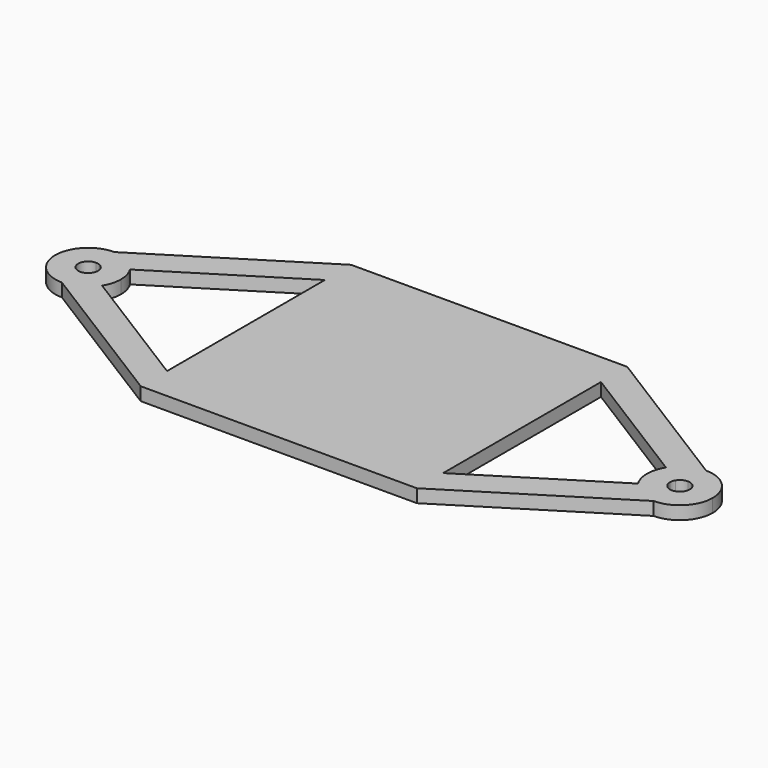
from build123d import *

# Parameters (mm, degrees)
F0_W     = 6
F0_H     = 5
F0_W_2   = 30
F1_DEPTH = 2


with BuildPart() as f1:
    # F0 (on Top) → F1 (new body)
    with BuildSketch(Plane.XY):
        with BuildLine():
            ThreePointArc((-45, -1.5), (-46.5, 0), (-45, 1.5))
            Line((-45, 1.5), (-45, 5))
            ThreePointArc((-45, 5), (-50, 0), (-45, -5))
            Line((-45, -5), (-45, -1.5))
        make_face()
        with BuildLine():
            ThreePointArc((-45, 5), (-42.576157338, 4.3732124062), (-40.76000848, 2.6499947))
            Line((-40.76000848, 2.6499947), (-21, 15))
            Line((-21, 15), (-21, 20))
            Line((-21, 20), (-45, 5))
        make_face()
        with BuildLine():
            Line((-21, -15), (-40.76000848, -2.6499947))
            ThreePointArc((-40.76000848, -2.6499947), (-42.576157338, -4.3732124062), (-45, -5))
            Line((-45, -5), (-21, -20))
            Line((-21, -20), (-21, -15))
        make_face()
        with BuildLine():
            ThreePointArc((50, 0), (48.5355339059, 3.5355339059), (45, 5))
            Line((45, 5), (45, 1.5))
            ThreePointArc((45, 1.5), (46.0606601718, 1.0606601718), (46.5, 0))
            ThreePointArc((46.5, 0), (46.0606601718, -1.0606601718), (45, -1.5))
            Line((45, -1.5), (45, -5))
            ThreePointArc((45, -5), (48.5355339059, -3.5355339059), (50, 0))
        make_face()
        with BuildLine():
            Line((21, 20), (21, 15))
            Line((21, 15), (40.76000848, 2.6499947))
            ThreePointArc((40.76000848, 2.6499947), (42.576157338, 4.3732124062), (45, 5))
            Line((45, 5), (21, 20))
        make_face()
        with BuildLine():
            Line((40.76000848, -2.6499947), (21, -15))
            Line((21, -15), (21, -20))
            Line((21, -20), (45, -5))
            ThreePointArc((45, -5), (42.576157338, -4.3732124062), (40.76000848, -2.6499947))
        make_face()
        with Locations((-18, 17.5)):
            Rectangle(F0_W, F0_H)
        with Locations((0, 17.5)):
            Rectangle(F0_W_2, F0_H)
        with Locations((18, 17.5)):
            Rectangle(F0_W, F0_H)
        with BuildLine():
            ThreePointArc((-45, 1.5), (-44.2728472014, 1.3119637219), (-43.728002544, 0.79499841))
            Line((-43.728002544, 0.79499841), (-40.76000848, 2.6499947))
            ThreePointArc((-40.76000848, 2.6499947), (-42.576157338, 4.3732124062), (-45, 5))
            Line((-45, 5), (-45, 1.5))
        make_face()
        with BuildLine():
            Line((-40.76000848, -2.6499947), (-43.728002544, -0.79499841))
            ThreePointArc((-43.728002544, -0.79499841), (-44.2728472014, -1.3119637219), (-45, -1.5))
            Line((-45, -1.5), (-45, -5))
            ThreePointArc((-45, -5), (-42.576157338, -4.3732124062), (-40.76000848, -2.6499947))
        make_face()
        with BuildLine():
            ThreePointArc((45, 5), (42.576157338, 4.3732124062), (40.76000848, 2.6499947))
            Line((40.76000848, 2.6499947), (43.728002544, 0.79499841))
            ThreePointArc((43.728002544, 0.79499841), (44.2728472014, 1.3119637219), (45, 1.5))
            Line((45, 1.5), (45, 5))
        make_face()
        with BuildLine():
            Line((43.728002544, -0.79499841), (40.76000848, -2.6499947))
            ThreePointArc((40.76000848, -2.6499947), (42.576157338, -4.3732124062), (45, -5))
            Line((45, -5), (45, -1.5))
            ThreePointArc((45, -1.5), (44.2728472014, -1.3119637219), (43.728002544, -0.79499841))
        make_face()
        with Locations((-18, -17.5)):
            Rectangle(F0_W, F0_H)
        with Locations((18, -17.5)):
            Rectangle(F0_W, F0_H)
        with BuildLine():
            ThreePointArc((-43.728002544, 0.79499841), (-43.5581268808, 0.4135237696), (-43.5, 0))
            Line((-43.5, 0), (-40, 0))
            ThreePointArc((-40, 0), (-40.1937562692, 1.3784125652), (-40.76000848, 2.6499947))
            Line((-40.76000848, 2.6499947), (-43.728002544, 0.79499841))
        make_face()
        with BuildLine():
            Line((-40, 0), (-43.5, 0))
            ThreePointArc((-43.5, 0), (-43.5581268808, -0.4135237696), (-43.728002544, -0.79499841))
            Line((-43.728002544, -0.79499841), (-40.76000848, -2.6499947))
            ThreePointArc((-40.76000848, -2.6499947), (-40.1937562692, -1.3784125652), (-40, 0))
        make_face()
        with BuildLine():
            ThreePointArc((40.76000848, 2.6499947), (40.1937562692, 1.3784125652), (40, 0))
            Line((40, 0), (43.5, 0))
            ThreePointArc((43.5, 0), (43.5581268808, 0.4135237696), (43.728002544, 0.79499841))
            Line((43.728002544, 0.79499841), (40.76000848, 2.6499947))
        make_face()
        with BuildLine():
            Line((43.5, 0), (40, 0))
            ThreePointArc((40, 0), (40.1937562692, -1.3784125652), (40.76000848, -2.6499947))
            Line((40.76000848, -2.6499947), (43.728002544, -0.79499841))
            ThreePointArc((43.728002544, -0.79499841), (43.5581268808, -0.4135237696), (43.5, 0))
        make_face()
        Polygon((-21, 15), (-21, 0), (21, 0), (21, 15), (15, 15), (-15, 15), align=None)
        Polygon((21, 0), (-21, 0), (-21, -15), (-15, -15), (15, -15), (21, -15), align=None)
        with Locations((0, -17.5)):
            Rectangle(F0_W_2, F0_H)
    extrude(amount=F1_DEPTH)


solid = f1.part
